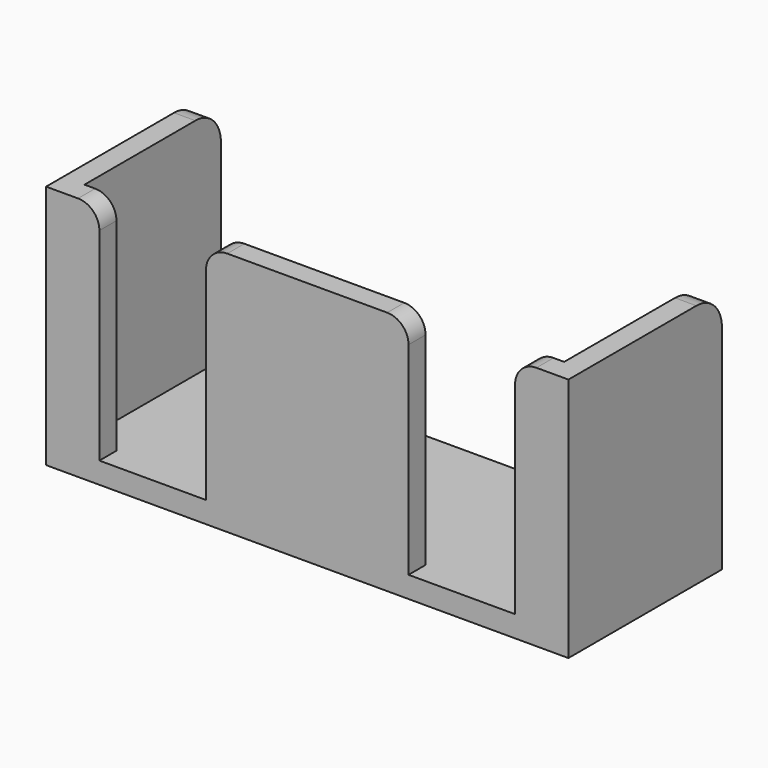
from build123d import *

# Parameters (mm, degrees)
SKETCH_W        = 49
SKETCH_H        = 18
PAD_DEPTH       = 2
PAD001_DEPTH    = 21
SKETCH002_W     = 10
SKETCH002_H     = 21
POCKET_DEPTH    = 2
SKETCH003_W     = 10
SKETCH003_H     = 21
POCKET001_DEPTH = 2
FILLET_R        = 3
FILLET001_R     = 3
FILLET002_R     = 2
FILLET003_R     = 2
FILLET004_R     = 2
FILLET005_R     = 2
SKETCH004_W     = 9
SKETCH004_H     = 9
PAD002_DEPTH    = 6
FILLET006_R     = 5


with BuildPart() as part:
    # Sketch → Pad (new body)
    with BuildSketch(Plane.XY):
        with Locations((24.5, 9)):
            Rectangle(SKETCH_W, SKETCH_H)
    extrude(amount=PAD_DEPTH)

    # Sketch001 (on Face6 of Pad) → Pad001 (join)
    with BuildSketch(Plane.XY.offset(2)):
        Polygon((2, 18), (2, 2), (47, 2), (47, 18), (49, 18), (49, 0), (0, 0), (0, 18), align=None)
    extrude(amount=PAD001_DEPTH)

    # Sketch002 (on Face5 of Pad001) → Pocket (cut)
    with BuildSketch(Plane.XZ):
        with Locations((10, 12.5)):
            Rectangle(SKETCH002_W, SKETCH002_H)
    extrude(amount=-POCKET_DEPTH, mode=Mode.SUBTRACT)

    # Sketch003 (on Face7 of Pocket) → Pocket001 (cut)
    with BuildSketch(Plane.XZ):
        with Locations((39, 12.5)):
            Rectangle(SKETCH003_W, SKETCH003_H)
    extrude(amount=-POCKET001_DEPTH, mode=Mode.SUBTRACT)

    # Fillet
    fillet_edges = [part.edges().sort_by_distance(p)[0] for p in [
        (1, 18, 23),
    ]]
    fillet(fillet_edges, radius=FILLET_R)

    # Fillet001
    fillet001_edges = [part.edges().sort_by_distance(p)[0] for p in [
        (48, 18, 23),
    ]]
    fillet(fillet001_edges, radius=FILLET001_R)

    # Fillet002
    fillet002_edges = [part.edges().sort_by_distance(p)[0] for p in [
        (5, 1, 23),
    ]]
    fillet(fillet002_edges, radius=FILLET002_R)

    # Fillet003
    fillet003_edges = [part.edges().sort_by_distance(p)[0] for p in [
        (15, 1, 23),
    ]]
    fillet(fillet003_edges, radius=FILLET003_R)

    # Fillet004
    fillet004_edges = [part.edges().sort_by_distance(p)[0] for p in [
        (34, 1, 23),
    ]]
    fillet(fillet004_edges, radius=FILLET004_R)

    # Fillet005
    fillet005_edges = [part.edges().sort_by_distance(p)[0] for p in [
        (44, 1, 23),
    ]]
    fillet(fillet005_edges, radius=FILLET005_R)

    # Sketch004 (on Face15 of Fillet005) → Pad002 (join)
    with BuildSketch(Plane(origin=(0, 2, 0), x_dir=(-1, 0, 0), z_dir=(0, 1, 0))):
        with Locations((-24.5, 6.5)):
            Rectangle(SKETCH004_W, SKETCH004_H)
    extrude(amount=PAD002_DEPTH)

    # Fillet006
    fillet006_edges = [part.edges().sort_by_distance(p)[0] for p in [
        (24.5, 8, 11),
    ]]
    fillet(fillet006_edges, radius=FILLET006_R)


solid = part.part
